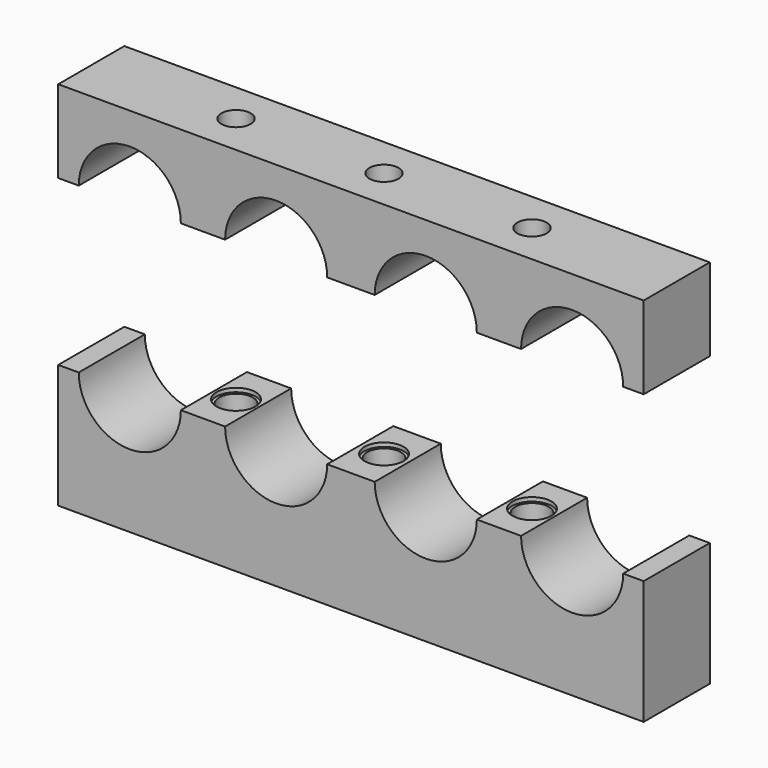
from build123d import *

# Parameters (mm, degrees)
F0_W      = 90
F0_H      = 19.05
F1_DEPTH  = 12.7
F2_R      = 7.85
F3_DEPTH  = 25.4
F4_W      = 90
F4_H      = 12.7
F5_DEPTH  = 12.7
F6_R      = 7.85
F7_DEPTH  = 25.4
F8_R      = 2.25
F9_DEPTH  = 25.4
F10_R     = 2.5908
F11_DEPTH = 20
F12_R     = 3
F13_DEPTH = 0.5
F14_DEPTH = 0.6


with BuildPart() as f1:
    # F0 (on Front) → F1 (new body)
    with BuildSketch(Plane.XZ):
        Rectangle(F0_W, F0_H)
    extrude(amount=F1_DEPTH)

    # F2 (on face) → F3 (cut)
    with BuildSketch(Plane.XZ.offset(12.7)):
        with Locations((-34, 9.525)):
            Circle(F2_R)
        with Locations((-11.5, 9.525)):
            Circle(F2_R)
        with Locations((11.5, 9.525)):
            Circle(F2_R)
        with Locations((34, 9.525)):
            Circle(F2_R)
    extrude(amount=-F3_DEPTH, mode=Mode.SUBTRACT)

    # F10 (on face) → F11 (cut)
    with BuildSketch(Plane.XY.offset(9.525)):
        with Locations((-22.75, -6.35)):
            Circle(F10_R)
        with Locations((0, -6.35)):
            Circle(F10_R)
        with Locations((22.75, -6.35)):
            Circle(F10_R)
    extrude(amount=-F11_DEPTH, mode=Mode.SUBTRACT)

    # F12 (on face) → F13 (cut)
    with BuildSketch(Plane.XY.offset(9.525)):
        with Locations((-22.75, -6.35)):
            Circle(F12_R)
        with Locations((22.75, -6.35)):
            Circle(F12_R)
        with Locations((0, -6.339623)):
            Circle(F12_R)
    extrude(amount=-F13_DEPTH, mode=Mode.SUBTRACT)

    # F12 (on face) → F14 (cut)
    with BuildSketch(Plane.XY.offset(9.525)):
        with Locations((-22.75, -6.35)):
            Circle(F12_R)
        with Locations((22.75, -6.35)):
            Circle(F12_R)
        with Locations((0, -6.339623)):
            Circle(F12_R)
    extrude(amount=-F14_DEPTH, mode=Mode.SUBTRACT)


with BuildPart() as f5:
    # F4 (on Front) → F5 (new body)
    with BuildSketch(Plane.XZ):
        with Locations((0, 41.162375)):
            Rectangle(F4_W, F4_H)
    extrude(amount=F5_DEPTH)

    # F6 (on face) → F7 (cut)
    with BuildSketch(Plane.XZ.offset(12.7)):
        with Locations((-34, 34.812375)):
            Circle(F6_R)
        with Locations((-11.5, 34.812375)):
            Circle(F6_R)
        with Locations((11.5, 34.812375)):
            Circle(F6_R)
        with Locations((34, 34.812375)):
            Circle(F6_R)
    extrude(amount=-F7_DEPTH, mode=Mode.SUBTRACT)

    # F8 (on face) → F9 (cut)
    with BuildSketch(Plane.XY.offset(47.512375)):
        with Locations((-22.75, -6.35)):
            Circle(F8_R)
        with Locations((0, -6.35)):
            Circle(F8_R)
        with Locations((22.75, -6.35)):
            Circle(F8_R)
    extrude(amount=-F9_DEPTH, mode=Mode.SUBTRACT)


solid = Compound([f1.part, f5.part])
